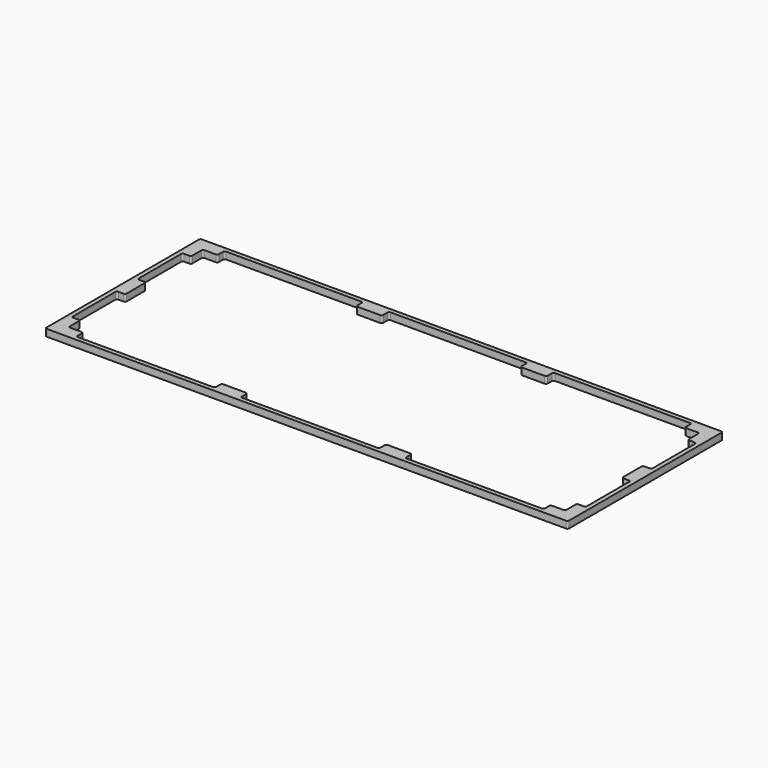
from build123d import *

# Parameters (mm, degrees)
SKETCH_W      = 302
SKETCH_H      = 112
SKETCH_W_2    = 287
SKETCH_H_2    = 97
PAD_DEPTH     = 4
SKETCH001_W   = 80
SKETCH001_H   = 5
SKETCH001_W_2 = 5
SKETCH001_H_2 = 32.5
POCKET_DEPTH  = 5
FILLET_R      = 1
FILLET001_R   = 1
FILLET002_R   = 1
FILLET003_R   = 1
FILLET004_R   = 1
FILLET005_R   = 1
FILLET006_R   = 1
FILLET007_R   = 1
FILLET008_R   = 1
FILLET009_R   = 1
FILLET010_R   = 1
FILLET011_R   = 1
FILLET012_R   = 1
FILLET013_R   = 1
FILLET014_R   = 1
FILLET015_R   = 1
FILLET016_R   = 1
FILLET017_R   = 1
FILLET018_R   = 1
FILLET019_R   = 1
FILLET020_R   = 1
FILLET021_R   = 1
FILLET022_R   = 1
FILLET023_R   = 1
FILLET024_R   = 1
FILLET025_R   = 1
FILLET026_R   = 1
FILLET027_R   = 1
FILLET028_R   = 1
FILLET029_R   = 1
FILLET030_R   = 1
FILLET031_R   = 1
FILLET032_R   = 1
FILLET033_R   = 1
FILLET034_R   = 1
FILLET035_R   = 1
FILLET036_R   = 1
FILLET037_R   = 1
FILLET038_R   = 1
FILLET039_R   = 1
FILLET040_R   = 1
FILLET041_R   = 1
FILLET042_R   = 1
FILLET043_R   = 1
FILLET044_R   = 1
FILLET045_R   = 1
FILLET046_R   = 1
FILLET047_R   = 1


with BuildPart() as part:
    # Sketch → Pad (new body)
    with BuildSketch(Plane.XY):
        Rectangle(SKETCH_W, SKETCH_H)
        Rectangle(SKETCH_W_2, SKETCH_H_2, mode=Mode.SUBTRACT)
    extrude(amount=PAD_DEPTH)

    # Sketch001 (on Face10 of Pad) → Pocket (cut)
    with BuildSketch(Plane.XY.offset(4)):
        with Locations((0, 51)):
            Rectangle(SKETCH001_W, SKETCH001_H)
        with Locations((0, -51)):
            Rectangle(SKETCH001_W, SKETCH001_H)
        with Locations((-95, -51)):
            Rectangle(SKETCH001_W, SKETCH001_H)
        with Locations((-95, 51)):
            Rectangle(SKETCH001_W, SKETCH001_H)
        with Locations((95, 51)):
            Rectangle(SKETCH001_W, SKETCH001_H)
        with Locations((95, -51)):
            Rectangle(SKETCH001_W, SKETCH001_H)
        with Locations((-146, 23.75)):
            Rectangle(SKETCH001_W_2, SKETCH001_H_2)
        with Locations((-146, -23.75)):
            Rectangle(SKETCH001_W_2, SKETCH001_H_2)
        with Locations((146, 23.75)):
            Rectangle(SKETCH001_W_2, SKETCH001_H_2)
        with Locations((146, -23.75)):
            Rectangle(SKETCH001_W_2, SKETCH001_H_2)
    extrude(amount=-POCKET_DEPTH, mode=Mode.SUBTRACT)

    # Fillet
    fillet_edges = [part.edges().sort_by_distance(p)[0] for p in [
        (-151, -56, 2),
    ]]
    fillet(fillet_edges, radius=FILLET_R)

    # Fillet001
    fillet001_edges = [part.edges().sort_by_distance(p)[0] for p in [
        (-143.5, -7.5, 2),
    ]]
    fillet(fillet001_edges, radius=FILLET001_R)

    # Fillet002
    fillet002_edges = [part.edges().sort_by_distance(p)[0] for p in [
        (-55, -48.5, 2),
    ]]
    fillet(fillet002_edges, radius=FILLET002_R)

    # Fillet003
    fillet003_edges = [part.edges().sort_by_distance(p)[0] for p in [
        (40, -48.5, 2),
    ]]
    fillet(fillet003_edges, radius=FILLET003_R)

    # Fillet004
    fillet004_edges = [part.edges().sort_by_distance(p)[0] for p in [
        (135, -48.5, 2),
    ]]
    fillet(fillet004_edges, radius=FILLET004_R)

    # Fillet005
    fillet005_edges = [part.edges().sort_by_distance(p)[0] for p in [
        (143.5, -40, 2),
    ]]
    fillet(fillet005_edges, radius=FILLET005_R)

    # Fillet006
    fillet006_edges = [part.edges().sort_by_distance(p)[0] for p in [
        (151, -56, 2),
    ]]
    fillet(fillet006_edges, radius=FILLET006_R)

    # Fillet007
    fillet007_edges = [part.edges().sort_by_distance(p)[0] for p in [
        (148.5, -7.5, 2),
    ]]
    fillet(fillet007_edges, radius=FILLET007_R)

    # Fillet008
    fillet008_edges = [part.edges().sort_by_distance(p)[0] for p in [
        (143.5, -7.5, 2),
    ]]
    fillet(fillet008_edges, radius=FILLET008_R)

    # Fillet009
    fillet009_edges = [part.edges().sort_by_distance(p)[0] for p in [
        (143.5, 7.5, 2),
    ]]
    fillet(fillet009_edges, radius=FILLET009_R)

    # Fillet010
    fillet010_edges = [part.edges().sort_by_distance(p)[0] for p in [
        (148.5, 40, 2),
    ]]
    fillet(fillet010_edges, radius=FILLET010_R)

    # Fillet011
    fillet011_edges = [part.edges().sort_by_distance(p)[0] for p in [
        (143.5, 40, 2),
    ]]
    fillet(fillet011_edges, radius=FILLET011_R)

    # Fillet012
    fillet012_edges = [part.edges().sort_by_distance(p)[0] for p in [
        (143.5, 48.5, 2),
    ]]
    fillet(fillet012_edges, radius=FILLET012_R)

    # Fillet013
    fillet013_edges = [part.edges().sort_by_distance(p)[0] for p in [
        (135, 48.5, 2),
    ]]
    fillet(fillet013_edges, radius=FILLET013_R)

    # Fillet014
    fillet014_edges = [part.edges().sort_by_distance(p)[0] for p in [
        (135, 53.5, 2),
    ]]
    fillet(fillet014_edges, radius=FILLET014_R)

    # Fillet015
    fillet015_edges = [part.edges().sort_by_distance(p)[0] for p in [
        (55, 48.5, 2),
    ]]
    fillet(fillet015_edges, radius=FILLET015_R)

    # Fillet016
    fillet016_edges = [part.edges().sort_by_distance(p)[0] for p in [
        (40, 48.5, 2),
    ]]
    fillet(fillet016_edges, radius=FILLET016_R)

    # Fillet017
    fillet017_edges = [part.edges().sort_by_distance(p)[0] for p in [
        (40, 53.5, 2),
    ]]
    fillet(fillet017_edges, radius=FILLET017_R)

    # Fillet018
    fillet018_edges = [part.edges().sort_by_distance(p)[0] for p in [
        (-40, 48.5, 2),
    ]]
    fillet(fillet018_edges, radius=FILLET018_R)

    # Fillet019
    fillet019_edges = [part.edges().sort_by_distance(p)[0] for p in [
        (-55, 48.5, 2),
    ]]
    fillet(fillet019_edges, radius=FILLET019_R)

    # Fillet020
    fillet020_edges = [part.edges().sort_by_distance(p)[0] for p in [
        (-55, 53.5, 2),
    ]]
    fillet(fillet020_edges, radius=FILLET020_R)

    # Fillet021
    fillet021_edges = [part.edges().sort_by_distance(p)[0] for p in [
        (-143.5, 40, 2),
    ]]
    fillet(fillet021_edges, radius=FILLET021_R)

    # Fillet022
    fillet022_edges = [part.edges().sort_by_distance(p)[0] for p in [
        (-135, 48.5, 2),
    ]]
    fillet(fillet022_edges, radius=FILLET022_R)

    # Fillet023
    fillet023_edges = [part.edges().sort_by_distance(p)[0] for p in [
        (-151, 56, 2),
    ]]
    fillet(fillet023_edges, radius=FILLET023_R)

    # Fillet024
    fillet024_edges = [part.edges().sort_by_distance(p)[0] for p in [
        (-143.5, 48.5, 2),
    ]]
    fillet(fillet024_edges, radius=FILLET024_R)

    # Fillet025
    fillet025_edges = [part.edges().sort_by_distance(p)[0] for p in [
        (-135, 53.5, 2),
    ]]
    fillet(fillet025_edges, radius=FILLET025_R)

    # Fillet026
    fillet026_edges = [part.edges().sort_by_distance(p)[0] for p in [
        (-148.5, 40, 2),
    ]]
    fillet(fillet026_edges, radius=FILLET026_R)

    # Fillet027
    fillet027_edges = [part.edges().sort_by_distance(p)[0] for p in [
        (-148.5, -7.5, 2),
    ]]
    fillet(fillet027_edges, radius=FILLET027_R)

    # Fillet028
    fillet028_edges = [part.edges().sort_by_distance(p)[0] for p in [
        (-143.5, -40, 2),
    ]]
    fillet(fillet028_edges, radius=FILLET028_R)

    # Fillet029
    fillet029_edges = [part.edges().sort_by_distance(p)[0] for p in [
        (-135, -48.5, 2),
    ]]
    fillet(fillet029_edges, radius=FILLET029_R)

    # Fillet030
    fillet030_edges = [part.edges().sort_by_distance(p)[0] for p in [
        (55, 53.5, 2),
    ]]
    fillet(fillet030_edges, radius=FILLET030_R)

    # Fillet031
    fillet031_edges = [part.edges().sort_by_distance(p)[0] for p in [
        (-40, 53.5, 2),
    ]]
    fillet(fillet031_edges, radius=FILLET031_R)

    # Fillet032
    fillet032_edges = [part.edges().sort_by_distance(p)[0] for p in [
        (-148.5, 7.5, 2),
    ]]
    fillet(fillet032_edges, radius=FILLET032_R)

    # Fillet033
    fillet033_edges = [part.edges().sort_by_distance(p)[0] for p in [
        (-143.5, 7.5, 2),
    ]]
    fillet(fillet033_edges, radius=FILLET033_R)

    # Fillet034
    fillet034_edges = [part.edges().sort_by_distance(p)[0] for p in [
        (-148.5, -40, 2),
    ]]
    fillet(fillet034_edges, radius=FILLET034_R)

    # Fillet035
    fillet035_edges = [part.edges().sort_by_distance(p)[0] for p in [
        (-143.5, -48.5, 2),
    ]]
    fillet(fillet035_edges, radius=FILLET035_R)

    # Fillet036
    fillet036_edges = [part.edges().sort_by_distance(p)[0] for p in [
        (-135, -53.5, 2),
    ]]
    fillet(fillet036_edges, radius=FILLET036_R)

    # Fillet037
    fillet037_edges = [part.edges().sort_by_distance(p)[0] for p in [
        (-40, -48.5, 2),
    ]]
    fillet(fillet037_edges, radius=FILLET037_R)

    # Fillet038
    fillet038_edges = [part.edges().sort_by_distance(p)[0] for p in [
        (-40, -53.5, 2),
    ]]
    fillet(fillet038_edges, radius=FILLET038_R)

    # Fillet039
    fillet039_edges = [part.edges().sort_by_distance(p)[0] for p in [
        (55, -48.5, 2),
    ]]
    fillet(fillet039_edges, radius=FILLET039_R)

    # Fillet040
    fillet040_edges = [part.edges().sort_by_distance(p)[0] for p in [
        (55, -53.5, 2),
    ]]
    fillet(fillet040_edges, radius=FILLET040_R)

    # Fillet041
    fillet041_edges = [part.edges().sort_by_distance(p)[0] for p in [
        (-55, -53.5, 2),
    ]]
    fillet(fillet041_edges, radius=FILLET041_R)

    # Fillet042
    fillet042_edges = [part.edges().sort_by_distance(p)[0] for p in [
        (40, -53.5, 2),
    ]]
    fillet(fillet042_edges, radius=FILLET042_R)

    # Fillet043
    fillet043_edges = [part.edges().sort_by_distance(p)[0] for p in [
        (151, 56, 2),
    ]]
    fillet(fillet043_edges, radius=FILLET043_R)

    # Fillet044
    fillet044_edges = [part.edges().sort_by_distance(p)[0] for p in [
        (143.5, -48.5, 2),
    ]]
    fillet(fillet044_edges, radius=FILLET044_R)

    # Fillet045
    fillet045_edges = [part.edges().sort_by_distance(p)[0] for p in [
        (135, -53.5, 2),
    ]]
    fillet(fillet045_edges, radius=FILLET045_R)

    # Fillet046
    fillet046_edges = [part.edges().sort_by_distance(p)[0] for p in [
        (148.5, -40, 2),
    ]]
    fillet(fillet046_edges, radius=FILLET046_R)

    # Fillet047
    fillet047_edges = [part.edges().sort_by_distance(p)[0] for p in [
        (148.5, 7.5, 2),
    ]]
    fillet(fillet047_edges, radius=FILLET047_R)


solid = part.part
